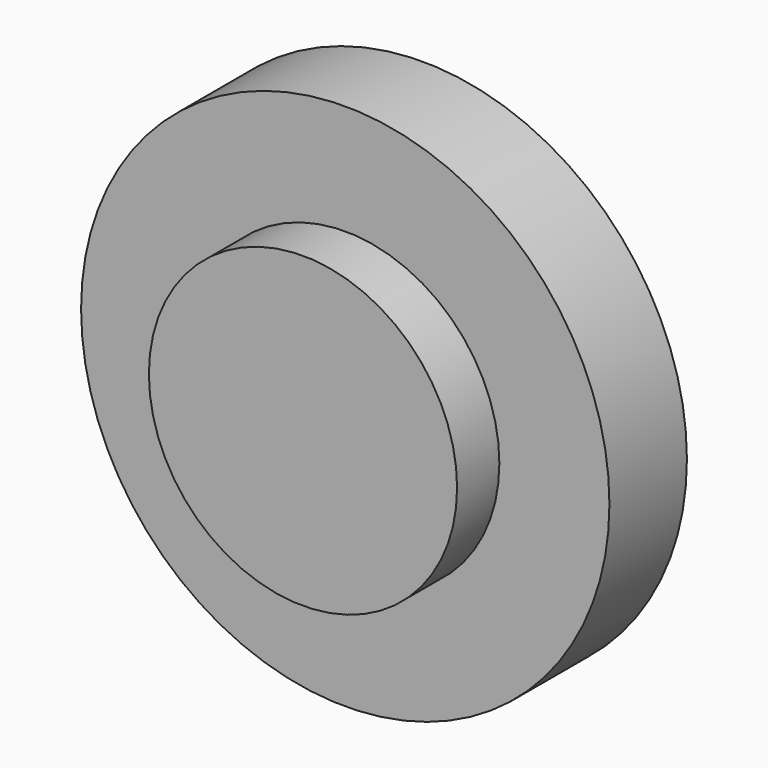
from build123d import *

# Parameters (mm, degrees)
F0_R     = 76.2
F0_R_2   = 44.45
F1_DEPTH = 2.54
F2_DEPTH = 17.78
F3_DEPTH = 25.4


with BuildPart() as f1:
    # F0 (on Front) → F1 (new body)
    with BuildSketch(Plane.XZ):
        Circle(F0_R)
        Circle(F0_R_2, mode=Mode.SUBTRACT)
    extrude(amount=F1_DEPTH)

    # F0 (on Front) → F2 (join)
    with BuildSketch(Plane.XZ):
        Circle(F0_R_2)
    extrude(amount=F2_DEPTH)

    # F0 (on Front) → F3 (join)
    with BuildSketch(Plane.XZ):
        Circle(F0_R)
        Circle(F0_R_2, mode=Mode.SUBTRACT)
        Circle(F0_R_2)
    extrude(amount=-F3_DEPTH)


solid = f1.part
